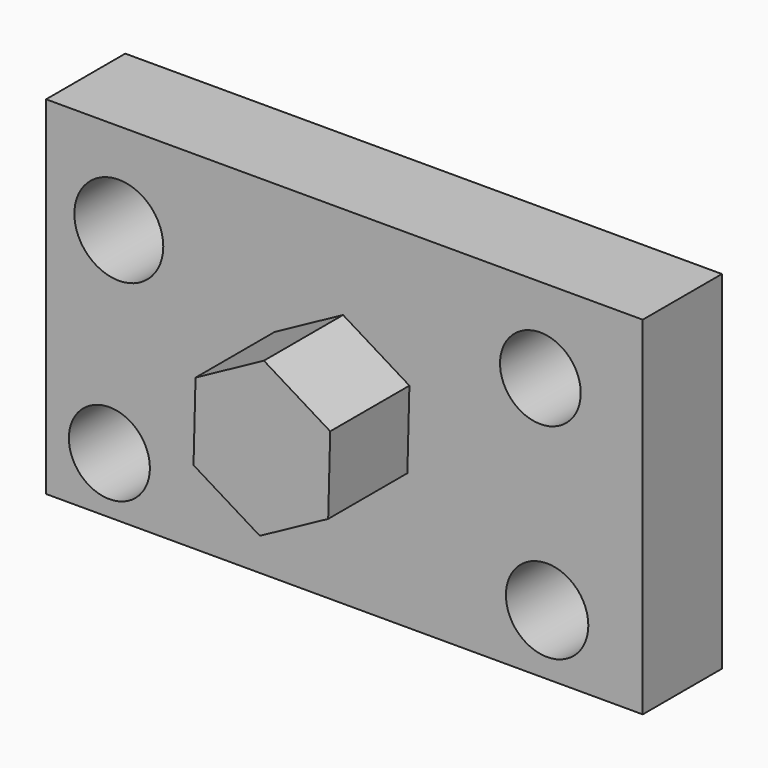
from build123d import *

# Parameters (mm, degrees)
F0_W     = 153.123051
F0_H     = 89.177757
F0_R     = 10.398269
F0_R_2   = 10.580509
F0_R_3   = 11.411691
F0_R_4   = 10.35798
F1_DEPTH = 25.4
F3_DEPTH = 25.4


with BuildPart() as f1:
    # F0 (on Front) → F1 (new body)
    with BuildSketch(Plane.XZ):
        with Locations((0.864126, -0.691298)):
            Rectangle(F0_W, F0_H)
        with Locations((-59.451837, -30.762867)):
            Circle(F0_R, mode=Mode.SUBTRACT)
        with Locations((52.884482, -29.725916)):
            Circle(F0_R_2, mode=Mode.SUBTRACT)
        with Locations((-57.032287, 20.393362)):
            Circle(F0_R_3, mode=Mode.SUBTRACT)
        with Locations((51.15623, 22.121616)):
            Circle(F0_R_4, mode=Mode.SUBTRACT)
    extrude(amount=F1_DEPTH)

    # F2 (on face) → F3 (join)
    with BuildSketch(Plane.XZ.offset(25.4)):
        Polygon((17.54057, 9.526291), (0.520275, 19.953725), (-17.020295, 10.427433), (-17.54057, -9.526291), (-0.520275, -19.953725), (17.020295, -10.427433), align=None)
    extrude(amount=F3_DEPTH)


solid = f1.part
